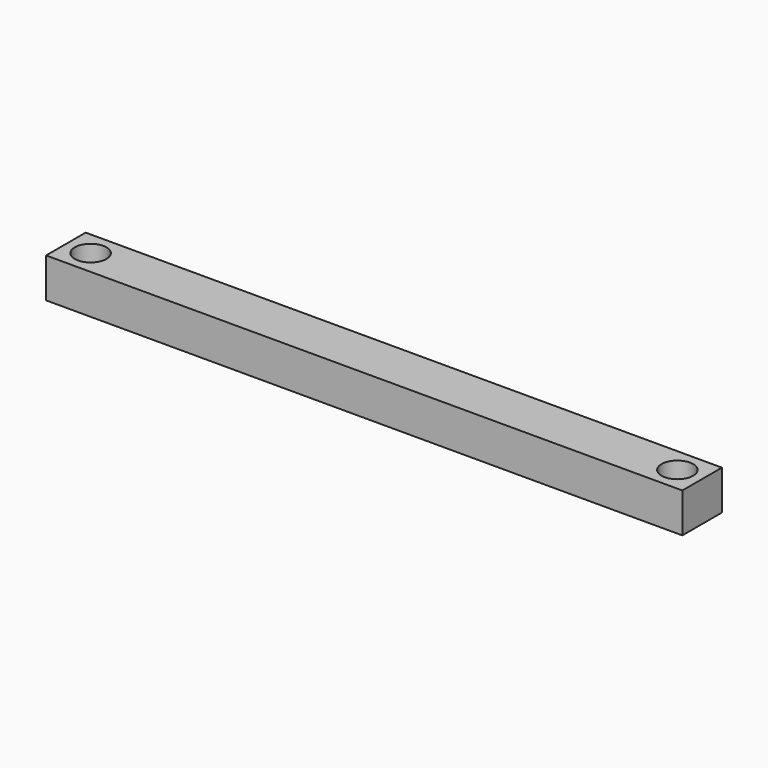
from build123d import *

# Parameters (mm, degrees)
PAD_DEPTH       = 2.5
SKETCH002_R     = 1.6
POCKET001_DEPTH = 4.001


with BuildPart() as part:
    # Sketch → Pad (new body, symmetric)
    with BuildSketch(Plane.XZ):
        Polygon((-27.15, 0), (27.15, 0), (32.15, 0), (32.15, -4), (-32.15, -4), (-32.15, 0), align=None)
    extrude(amount=PAD_DEPTH, both=True)

    # Sketch002 → Pocket001 (cut, through all)
    with BuildSketch(Plane.XY):
        with Locations((29.65, 0)):
            Circle(SKETCH002_R)
        with Locations((-29.65, 0)):
            Circle(SKETCH002_R)
    extrude(amount=-POCKET001_DEPTH, mode=Mode.SUBTRACT)


solid = part.part
